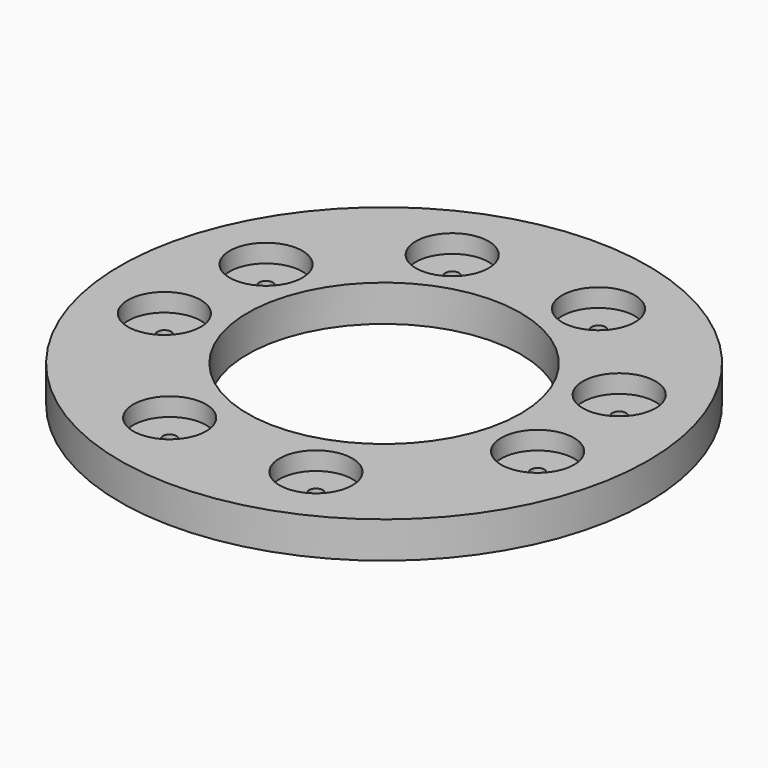
from build123d import *

# Parameters (mm, degrees)
CYLINDER799_R               = 1.5
CYLINDER799_DEPTH           = 100
CYLINDER799_PLACEMENT_ANGLE = 100
CYLINDER797_R               = 1.5
CYLINDER797_DEPTH           = 100
CYLINDER797_PLACEMENT_ANGLE = 135
CYLINDER801_R               = 1.5
CYLINDER801_DEPTH           = 100
CYLINDER803_R               = 1.5
CYLINDER803_DEPTH           = 100
CYLINDER803_PLACEMENT_ANGLE = 225
CYLINDER796_R               = 1.5
CYLINDER796_DEPTH           = 100
CYLINDER800_R               = 1.5
CYLINDER800_DEPTH           = 100
CYLINDER800_PLACEMENT_ANGLE = 55
CYLINDER798_R               = 1.5
CYLINDER798_DEPTH           = 100
CYLINDER802_R               = 1.5
CYLINDER802_DEPTH           = 100
CYLINDER802_PLACEMENT_ANGLE = 45
CYLINDER766_R               = 8
CYLINDER766_DEPTH           = 20
CYLINDER766_PLACEMENT_ANGLE = 100
CYLINDER765_R               = 8
CYLINDER765_DEPTH           = 20
CYLINDER765_PLACEMENT_ANGLE = 135
CYLINDER767_R               = 8
CYLINDER767_DEPTH           = 20
CYLINDER762_R               = 8
CYLINDER762_DEPTH           = 20
CYLINDER762_PLACEMENT_ANGLE = 225
CYLINDER769_R               = 8
CYLINDER769_DEPTH           = 20
CYLINDER764_R               = 8
CYLINDER764_DEPTH           = 20
CYLINDER764_PLACEMENT_ANGLE = 55
CYLINDER763_R               = 8
CYLINDER763_DEPTH           = 20
CYLINDER768_R               = 8
CYLINDER768_DEPTH           = 20
CYLINDER768_PLACEMENT_ANGLE = 45
TUBE082_R                   = 58
TUBE082_R_2                 = 30
TUBE082_DEPTH               = 8


with BuildPart() as obj1:
    # Cylinder799 → Cylinder799 (new body)
    with BuildSketch(Plane.XY):
        Circle(CYLINDER799_R)
    extrude(amount=CYLINDER799_DEPTH)


with BuildPart() as obj1_1:
    # Cylinder799 placement: moved
    add(obj1.part.moved(Location((41.004432, -9.090464, 0))).rotate(Axis((41.004432, -9.090464, 0), (0, 0, 1)), CYLINDER799_PLACEMENT_ANGLE))


with BuildPart() as obj2:
    # Cylinder797 → Cylinder797 (new body)
    with BuildSketch(Plane.XY):
        Circle(CYLINDER797_R)
    extrude(amount=CYLINDER797_DEPTH)


with BuildPart() as obj2_1:
    # Cylinder797 placement: moved
    add(obj2.part.moved(Location((38.80294, 16.072704, 0))).rotate(Axis((38.80294, 16.072704, 0), (0, 0, 1)), CYLINDER797_PLACEMENT_ANGLE))


with BuildPart() as obj3:
    # Cylinder801 → Cylinder801 (new body)
    with BuildSketch(Plane(origin=(16.072704, 38.80294, 0), x_dir=(-1, 0, 0), z_dir=(0, 0, 1))):
        Circle(CYLINDER801_R)
    extrude(amount=CYLINDER801_DEPTH)


with BuildPart() as obj4:
    # Cylinder803 → Cylinder803 (new body)
    with BuildSketch(Plane.XY):
        Circle(CYLINDER803_R)
    extrude(amount=CYLINDER803_DEPTH)


with BuildPart() as obj4_1:
    # Cylinder803 placement: moved
    add(obj4.part.moved(Location((-16.072704, 38.80294, 0))).rotate(Axis((-16.072704, 38.80294, 0), (0, 0, 1)), CYLINDER803_PLACEMENT_ANGLE))


with BuildPart() as obj5:
    # Cylinder796 → Cylinder796 (new body)
    with BuildSketch(Plane(origin=(-38.80294, 16.072704, 0), x_dir=(0, -1, 0), z_dir=(0, 0, 1))):
        Circle(CYLINDER796_R)
    extrude(amount=CYLINDER796_DEPTH)


with BuildPart() as obj6:
    # Cylinder800 → Cylinder800 (new body)
    with BuildSketch(Plane.XY):
        Circle(CYLINDER800_R)
    extrude(amount=CYLINDER800_DEPTH)


with BuildPart() as obj6_1:
    # Cylinder800 placement: moved
    add(obj6.part.moved(Location((-41.004432, -9.090464, 0))).rotate(Axis((-41.004432, -9.090464, 0), (0, 0, -1)), CYLINDER800_PLACEMENT_ANGLE))


with BuildPart() as obj7:
    # Cylinder798 → Cylinder798 (new body)
    with BuildSketch(Plane(origin=(-16.072704, -38.80294, 0), x_dir=(1, 0, 0), z_dir=(0, 0, 1))):
        Circle(CYLINDER798_R)
    extrude(amount=CYLINDER798_DEPTH)


with BuildPart() as compound716:
    # Cylinder802 → Cylinder802 (new body)
    with BuildSketch(Plane.XY):
        Circle(CYLINDER802_R)
    extrude(amount=CYLINDER802_DEPTH)


with BuildPart() as compound716_1:
    # Cylinder802 placement: moved
    add(compound716.part.moved(Location((16.072704, -38.80294, 0))).rotate(Axis((16.072704, -38.80294, 0), (0, 0, 1)), CYLINDER802_PLACEMENT_ANGLE))

    # Compound716: union obj1, obj2, obj3, obj4, obj5, obj6, obj7
    add(obj1_1.part)
    add(obj2_1.part)
    add(obj3.part)
    add(obj4_1.part)
    add(obj5.part)
    add(obj6_1.part)
    add(obj7.part)


with BuildPart() as obj8:
    # Cylinder766 → Cylinder766 (new body)
    with BuildSketch(Plane.XY):
        Circle(CYLINDER766_R)
    extrude(amount=CYLINDER766_DEPTH)


with BuildPart() as obj8_1:
    # Cylinder766 placement: moved
    add(obj8.part.moved(Location((41.004432, -9.090464, 0))).rotate(Axis((41.004432, -9.090464, 0), (0, 0, 1)), CYLINDER766_PLACEMENT_ANGLE))


with BuildPart() as obj9:
    # Cylinder765 → Cylinder765 (new body)
    with BuildSketch(Plane.XY):
        Circle(CYLINDER765_R)
    extrude(amount=CYLINDER765_DEPTH)


with BuildPart() as obj9_1:
    # Cylinder765 placement: moved
    add(obj9.part.moved(Location((38.80294, 16.072704, 0))).rotate(Axis((38.80294, 16.072704, 0), (0, 0, 1)), CYLINDER765_PLACEMENT_ANGLE))


with BuildPart() as obj10:
    # Cylinder767 → Cylinder767 (new body)
    with BuildSketch(Plane(origin=(16.072704, 38.80294, 0), x_dir=(-1, 0, 0), z_dir=(0, 0, 1))):
        Circle(CYLINDER767_R)
    extrude(amount=CYLINDER767_DEPTH)


with BuildPart() as obj11:
    # Cylinder762 → Cylinder762 (new body)
    with BuildSketch(Plane.XY):
        Circle(CYLINDER762_R)
    extrude(amount=CYLINDER762_DEPTH)


with BuildPart() as obj11_1:
    # Cylinder762 placement: moved
    add(obj11.part.moved(Location((-16.072704, 38.80294, 0))).rotate(Axis((-16.072704, 38.80294, 0), (0, 0, 1)), CYLINDER762_PLACEMENT_ANGLE))


with BuildPart() as obj12:
    # Cylinder769 → Cylinder769 (new body)
    with BuildSketch(Plane(origin=(-38.80294, 16.072704, 0), x_dir=(0, -1, 0), z_dir=(0, 0, 1))):
        Circle(CYLINDER769_R)
    extrude(amount=CYLINDER769_DEPTH)


with BuildPart() as obj13:
    # Cylinder764 → Cylinder764 (new body)
    with BuildSketch(Plane.XY):
        Circle(CYLINDER764_R)
    extrude(amount=CYLINDER764_DEPTH)


with BuildPart() as obj13_1:
    # Cylinder764 placement: moved
    add(obj13.part.moved(Location((-41.004432, -9.090464, 0))).rotate(Axis((-41.004432, -9.090464, 0), (0, 0, -1)), CYLINDER764_PLACEMENT_ANGLE))


with BuildPart() as obj14:
    # Cylinder763 → Cylinder763 (new body)
    with BuildSketch(Plane(origin=(-16.072704, -38.80294, 0), x_dir=(1, 0, 0), z_dir=(0, 0, 1))):
        Circle(CYLINDER763_R)
    extrude(amount=CYLINDER763_DEPTH)


with BuildPart() as compound719:
    # Cylinder768 → Cylinder768 (new body)
    with BuildSketch(Plane.XY):
        Circle(CYLINDER768_R)
    extrude(amount=CYLINDER768_DEPTH)


with BuildPart() as compound719_1:
    # Cylinder768 placement: moved
    add(compound719.part.moved(Location((16.072704, -38.80294, 0))).rotate(Axis((16.072704, -38.80294, 0), (0, 0, 1)), CYLINDER768_PLACEMENT_ANGLE))

    # Compound719: union obj8, obj9, obj10, obj11, obj12, obj13, obj14
    add(obj8_1.part)
    add(obj9_1.part)
    add(obj10.part)
    add(obj11_1.part)
    add(obj12.part)
    add(obj13_1.part)
    add(obj14.part)


with BuildPart() as compound719_2:
    # Compound719 placement: moved
    add(compound719_1.part.moved(Location((0, 0, 56))))


with BuildPart() as cut333:
    # Tube082 → Tube082 (new body)
    with BuildSketch(Plane.XY.offset(52)):
        Circle(TUBE082_R)
        Circle(TUBE082_R_2, mode=Mode.SUBTRACT)
    extrude(amount=TUBE082_DEPTH)

    # Cut332: cut Compound719
    add(compound719_2.part, mode=Mode.SUBTRACT)

    # Cut333: cut Compound716
    add(compound716_1.part, mode=Mode.SUBTRACT)


solid = cut333.part
